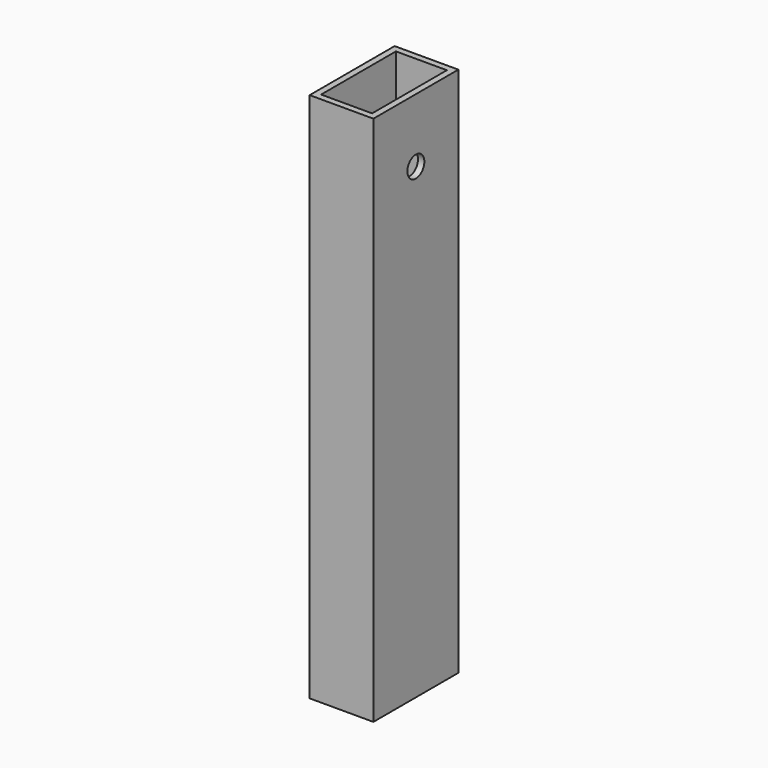
from build123d import *

# Parameters (mm, degrees)
F0_W     = 30
F0_H     = 50
F0_W_2   = 24
F0_H_2   = 44
F1_DEPTH = 250
F3_D     = 5.5
F5_D     = 10
F5_DEPTH = 5


with BuildPart() as f1:
    # F0 (on Top) → F1 (new body)
    with BuildSketch(Plane.XY):
        with Locations((15, 25)):
            Rectangle(F0_W, F0_H)
        with Locations((15, 25)):
            Rectangle(F0_W_2, F0_H_2, mode=Mode.SUBTRACT)
    extrude(amount=F1_DEPTH)

    # F3 (through all)
    with Locations(Plane(origin=(0, 0, 0), x_dir=(0, -1, 0), z_dir=(-1, 0, 0))):
        with Locations((-25, 220)):
            Hole(F3_D / 2)

    # F5
    with Locations(Plane.YZ.offset(30)):
        with Locations((25, 220)):
            Hole(F5_D / 2, depth=F5_DEPTH)


solid = f1.part
